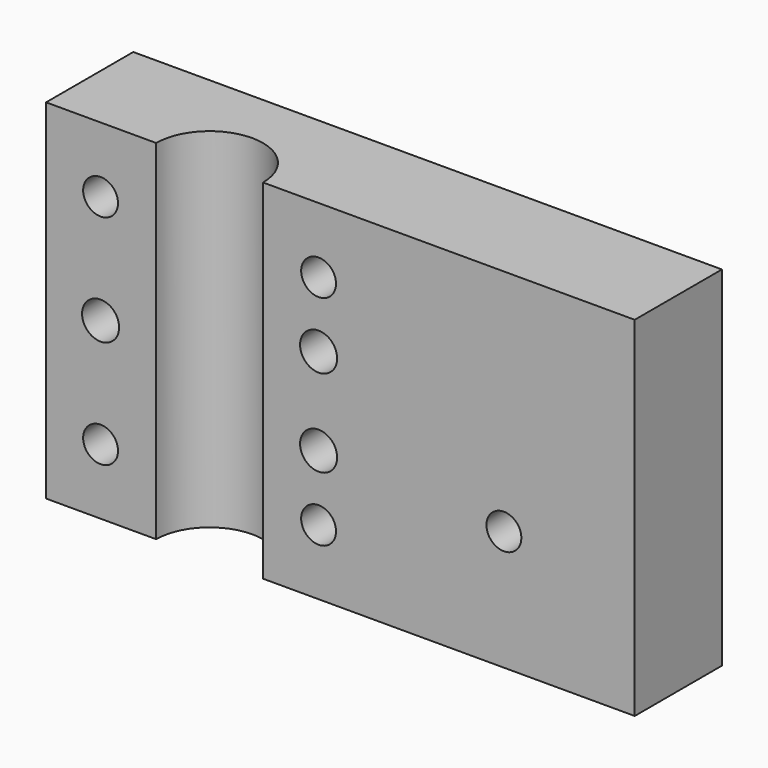
from build123d import *

# Parameters (mm, degrees)
SKETCH056_W     = 30
SKETCH056_H     = 32
SKETCH056_R     = 1.7
PAD037_DEPTH    = 10
SKETCH057_R     = 3.5
POCKET020_DEPTH = 5
POCKET020_TAPER = 20
SKETCH059_R     = 4.9
POCKET022_DEPTH = 32
SKETCH060_W     = 32
SKETCH060_H     = 10
PAD038_DEPTH    = 24
POCKET023_DEPTH = 28
SKETCH062_R     = 1.6
POCKET024_DEPTH = 8


with BuildPart() as part:
    # Sketch056 → Pad037 (new body)
    with BuildSketch(Plane.XZ):
        Rectangle(SKETCH056_W, SKETCH056_H)
        with Locations((10, 4)):
            Circle(SKETCH056_R, mode=Mode.SUBTRACT)
        with Locations((10, -4)):
            Circle(SKETCH056_R, mode=Mode.SUBTRACT)
        with Locations((-10, 0)):
            Circle(SKETCH056_R, mode=Mode.SUBTRACT)
    extrude(amount=PAD037_DEPTH)

    # Sketch057 (on Face8 of Pad037) → Pocket020 (cut)
    with BuildSketch(Plane(origin=(0, 0, 0), x_dir=(1, 0, 0), z_dir=(0, 1, 0))):
        with Locations((-10, 0)):
            Circle(SKETCH057_R)
        with Locations((10, 4)):
            Circle(SKETCH057_R)
        with Locations((10, -4)):
            Circle(SKETCH057_R)
    extrude(amount=-POCKET020_DEPTH, taper=POCKET020_TAPER, mode=Mode.SUBTRACT)

    # Sketch059 (on Face1 of Pocket020) → Pocket022 (cut)
    with BuildSketch(Plane(origin=(0, 0, -16), x_dir=(1, 0, 0), z_dir=(0, 0, -1))):
        with Locations((0, 10)):
            Circle(SKETCH059_R)
    extrude(amount=-POCKET022_DEPTH, mode=Mode.SUBTRACT)

    # Sketch060 (on Face3 of Pocket022) → Pad038 (join)
    with BuildSketch(Plane(origin=(15, 0, 0), x_dir=(0, 0, 1), z_dir=(1, 0, 0))):
        with Locations((0, 5)):
            Rectangle(SKETCH060_W, SKETCH060_H)
    extrude(amount=PAD038_DEPTH)

    # Sketch061 (on Face2 of Pad038) → Pocket023 (cut)
    with BuildSketch(Plane(origin=(0, 0, -16), x_dir=(1, 0, 0), z_dir=(0, 0, -1))):
        with BuildLine():
            Line((17, 2.6), (17, 0.5))
            Line((17, 0.5), (38, 0.5))
            Line((38, 0.5), (38, 2.6))
            ThreePointArc((38, 2.6), (27.5, 5.6), (17, 2.6))
        make_face()
    extrude(amount=-POCKET023_DEPTH, mode=Mode.SUBTRACT)

    # Sketch062 (on Face3 of Pocket023) → Pocket024 (cut)
    with BuildSketch(Plane.XZ.offset(10)):
        with Locations((-10, 10)):
            Circle(SKETCH062_R)
        with Locations((-10, -10)):
            Circle(SKETCH062_R)
        with Locations((10, 10)):
            Circle(SKETCH062_R)
        with Locations((10, -10)):
            Circle(SKETCH062_R)
        with Locations((27, -5)):
            Circle(SKETCH062_R)
    extrude(amount=-POCKET024_DEPTH, mode=Mode.SUBTRACT)


with BuildPart() as part_1:
    # Body010 placement: moved
    add(part.part.moved(Location((-1, -43.5, 39.5))))


solid = part_1.part
